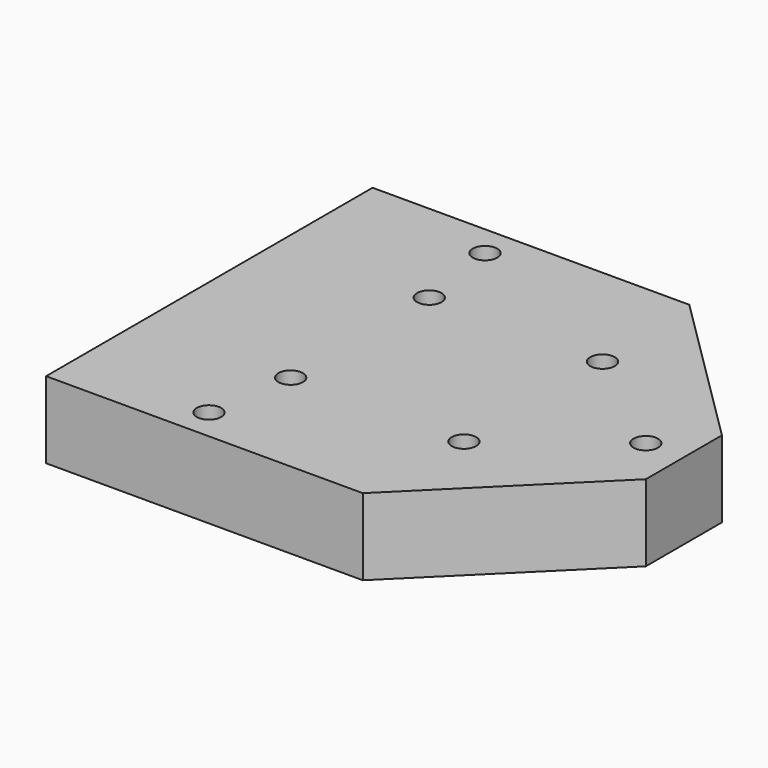
from build123d import *

# Parameters (mm, degrees)
F1_DEPTH = 7.8232
F3_R     = 1.25
F4_DEPTH = 7.8232


with BuildPart() as f1:
    # F0 (on Top) → F1 (new body)
    with BuildSketch(Plane.XY):
        Polygon((-24.2062, 0), (-24.2062, -20.8153), (8.1026, -20.8153), (24.2062, -4.8514), (24.2062, 0), (24.2062, 4.8514), (8.1026, 20.8153), (-24.2062, 20.8153), align=None)
    extrude(amount=-F1_DEPTH)

    # F3 (on face) → F4 (cut, through all)
    with BuildSketch(Plane.XY):
        with Locations((-10.16, -17.597636)):
            Circle(F3_R)
        with Locations((-10.16, 17.597636)):
            Circle(F3_R)
        with Locations((20.32, 0)):
            Circle(F3_R)
        with Locations((-8.836572, -8.836572)):
            Circle(F3_R)
        with Locations((-8.836572, 8.836572)):
            Circle(F3_R)
        with Locations((8.836572, 8.836572)):
            Circle(F3_R)
        with Locations((8.836572, -8.836572)):
            Circle(F3_R)
    extrude(amount=-F4_DEPTH, mode=Mode.SUBTRACT)


solid = f1.part
